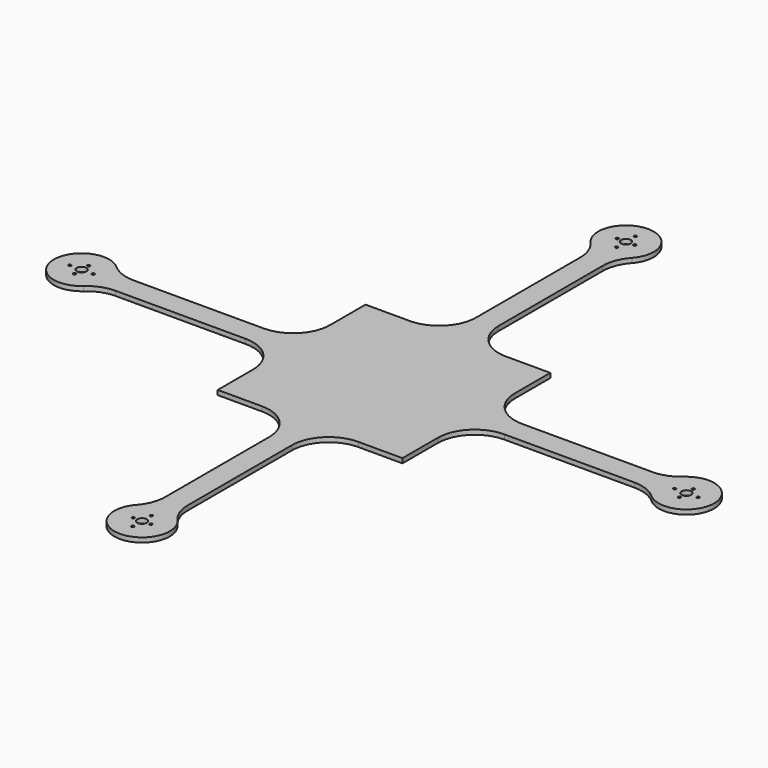
from build123d import *

# Parameters (mm, degrees)
F0_R     = 1.5
F0_R_2   = 5.25
F1_DEPTH = 5


with BuildPart() as f1:
    # F0 (on Top) → F1 (new body)
    with BuildSketch(Plane.XY):
        with BuildLine():
            Line((52.176812, -100), (100, -100))
            Line((100, -100), (100, -52.176812))
            ThreePointArc((100, -52.176812), (111.715729, -23.89254), (140, -12.176812))
            Line((140, -12.176812), (280.753058, -12.176812))
            ThreePointArc((280.753058, -12.176812), (295.025184, -14.809628), (307.418515, -22.361491))
            ThreePointArc((307.418515, -22.361491), (357.417609, 0), (307.418515, 22.361491))
            ThreePointArc((307.418515, 22.361491), (295.025184, 14.809628), (280.753058, 12.176812))
            Line((280.753058, 12.176812), (140, 12.176812))
            ThreePointArc((140, 12.176812), (111.715729, 23.89254), (100, 52.176812))
            Line((100, 52.176812), (100, 100))
            Line((100, 100), (52.176812, 100))
            ThreePointArc((52.176812, 100), (23.89254, 111.715729), (12.176812, 140))
            Line((12.176812, 140), (12.176812, 280.753058))
            ThreePointArc((12.176812, 280.753058), (14.809628, 295.025184), (22.361491, 307.418515))
            ThreePointArc((22.361491, 307.418515), (0, 357.417609), (-22.361491, 307.418515))
            ThreePointArc((-22.361491, 307.418515), (-14.809628, 295.025184), (-12.176812, 280.753058))
            Line((-12.176812, 280.753058), (-12.176812, 140))
            ThreePointArc((-12.176812, 140), (-23.89254, 111.715729), (-52.176812, 100))
            Line((-52.176812, 100), (-100, 100))
            Line((-100, 100), (-100, 52.176812))
            ThreePointArc((-100, 52.176812), (-111.715729, 23.89254), (-140, 12.176812))
            Line((-140, 12.176812), (-280.753058, 12.176812))
            ThreePointArc((-280.753058, 12.176812), (-295.025184, 14.809628), (-307.418515, 22.361491))
            ThreePointArc((-307.418515, 22.361491), (-357.417609, 0), (-307.418515, -22.361491))
            ThreePointArc((-307.418515, -22.361491), (-295.025184, -14.809628), (-280.753058, -12.176812))
            Line((-280.753058, -12.176812), (-140, -12.176812))
            ThreePointArc((-140, -12.176812), (-111.715729, -23.89254), (-100, -52.176812))
            Line((-100, -52.176812), (-100, -100))
            Line((-100, -100), (-52.176812, -100))
            ThreePointArc((-52.176812, -100), (-23.89254, -111.715729), (-12.176812, -140))
            Line((-12.176812, -140), (-12.176812, -280.753058))
            ThreePointArc((-12.176812, -280.753058), (-14.809628, -295.025184), (-22.361491, -307.418515))
            ThreePointArc((-22.361491, -307.418515), (0, -357.417609), (22.361491, -307.418515))
            ThreePointArc((22.361491, -307.418515), (14.809628, -295.025184), (12.176812, -280.753058))
            Line((12.176812, -280.753058), (12.176812, -140))
            ThreePointArc((12.176812, -140), (23.89254, -111.715729), (52.176812, -100))
        make_face()
        with Locations((-0.023046, -340.050671)):
            Circle(F0_R, mode=Mode.SUBTRACT)
        with Locations((-9.522677, -327.350178)):
            Circle(F0_R, mode=Mode.SUBTRACT)
        with Locations((-0.023046, -314.650178)):
            Circle(F0_R, mode=Mode.SUBTRACT)
        with Locations((-340.050671, -0.023046)):
            Circle(F0_R, mode=Mode.SUBTRACT)
        with Locations((-327.350178, -9.522677)):
            Circle(F0_R, mode=Mode.SUBTRACT)
        with Locations((-314.650178, -0.023046)):
            Circle(F0_R, mode=Mode.SUBTRACT)
        with Locations((0, -327.417609)):
            Circle(F0_R_2, mode=Mode.SUBTRACT)
        with Locations((9.476954, -327.350178)):
            Circle(F0_R, mode=Mode.SUBTRACT)
        with Locations((327.350178, -9.476954)):
            Circle(F0_R, mode=Mode.SUBTRACT)
        with Locations((-327.417609, 0)):
            Circle(F0_R_2, mode=Mode.SUBTRACT)
        with Locations((-327.350178, 9.476954)):
            Circle(F0_R, mode=Mode.SUBTRACT)
        with Locations((-9.476954, 327.350178)):
            Circle(F0_R, mode=Mode.SUBTRACT)
        with Locations((314.650178, 0.023046)):
            Circle(F0_R, mode=Mode.SUBTRACT)
        with Locations((327.417609, 0)):
            Circle(F0_R_2, mode=Mode.SUBTRACT)
        with Locations((327.350178, 9.522677)):
            Circle(F0_R, mode=Mode.SUBTRACT)
        with Locations((340.050671, 0.023046)):
            Circle(F0_R, mode=Mode.SUBTRACT)
        with Locations((0.023046, 314.650178)):
            Circle(F0_R, mode=Mode.SUBTRACT)
        with Locations((0, 327.417609)):
            Circle(F0_R_2, mode=Mode.SUBTRACT)
        with Locations((9.522677, 327.350178)):
            Circle(F0_R, mode=Mode.SUBTRACT)
        with Locations((0.023046, 340.050671)):
            Circle(F0_R, mode=Mode.SUBTRACT)
    extrude(amount=F1_DEPTH)


solid = f1.part
